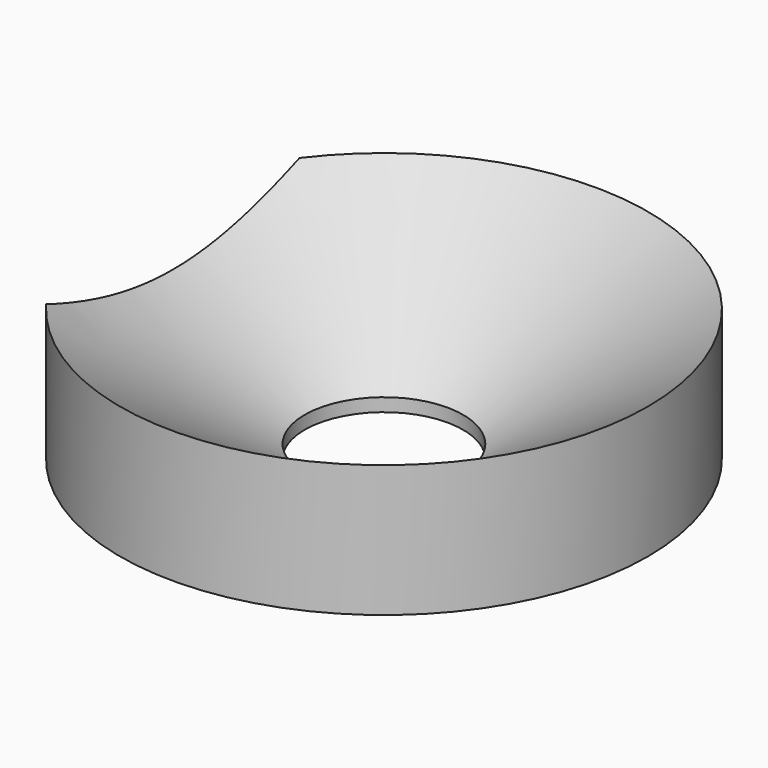
from build123d import *

# Parameters (mm, degrees)
F3_DEPTH = 25


with BuildPart() as f1:
    # F0 (on Front) → F1 (revolve)
    with BuildSketch(Plane.XZ):
        Polygon((-10, 0), (-3, 0), (-3, 0.5), (-10, 5), align=None)
    revolve(axis=Axis((0, 0, 1.87613), (0, 0, 1)))

    # F2 (on face) → F3 (cut)
    with BuildSketch(Plane(origin=(0, 0, 0), x_dir=(1, 0, 0), z_dir=(0, 0, -1))):
        with BuildLine():
            Line((-8, -6), (-8, 6))
            ThreePointArc((-8, 6), (-10, 0), (-8, -6))
        make_face()
    extrude(amount=-F3_DEPTH, mode=Mode.SUBTRACT)


solid = f1.part
